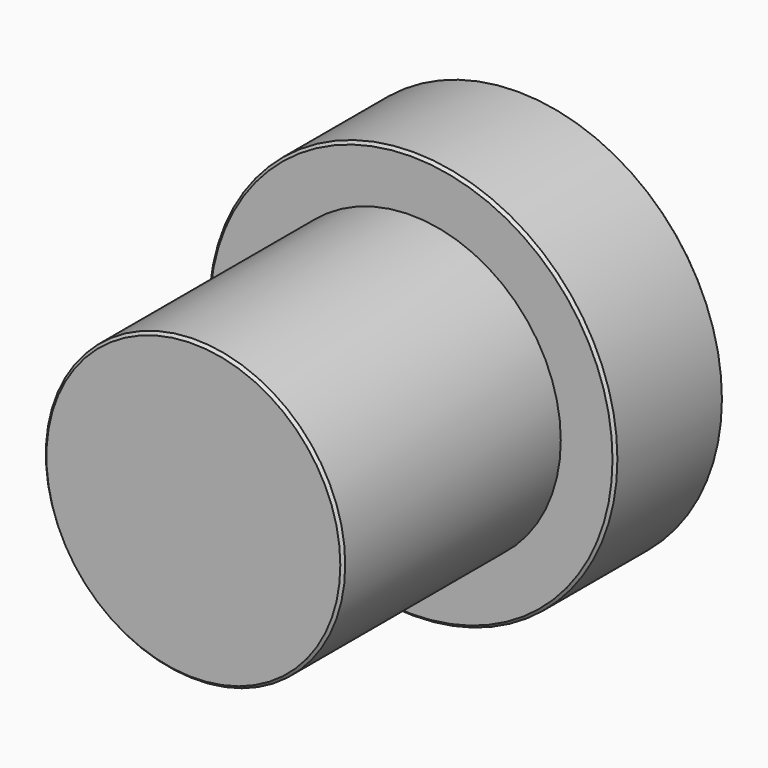
from build123d import *

# Parameters (mm, degrees)
F0_R     = 7.5
F0_R_2   = 5.5
F1_DEPTH = 5
F2_DEPTH = 10
F3_SIZE  = 0.1


with BuildPart() as f1:
    # F0 (on Front) → F1 (new body)
    with BuildSketch(Plane.XZ):
        Circle(F0_R)
        Circle(F0_R_2, mode=Mode.SUBTRACT)
        Circle(F0_R_2)
    extrude(amount=-F1_DEPTH)

    # F0 (on Front) → F2 (join)
    with BuildSketch(Plane.XZ):
        Circle(F0_R_2)
    extrude(amount=F2_DEPTH)

    # F3
    f3_edges = [f1.edges().sort_by_distance(p)[0] for p in [
        (-5.5, -10, 0),
        (7.5, 2.5, 0),
        (-7.5, 0, 0),
        (-7.5, 5, 0),
    ]]
    chamfer(f3_edges, length=F3_SIZE)


solid = f1.part
